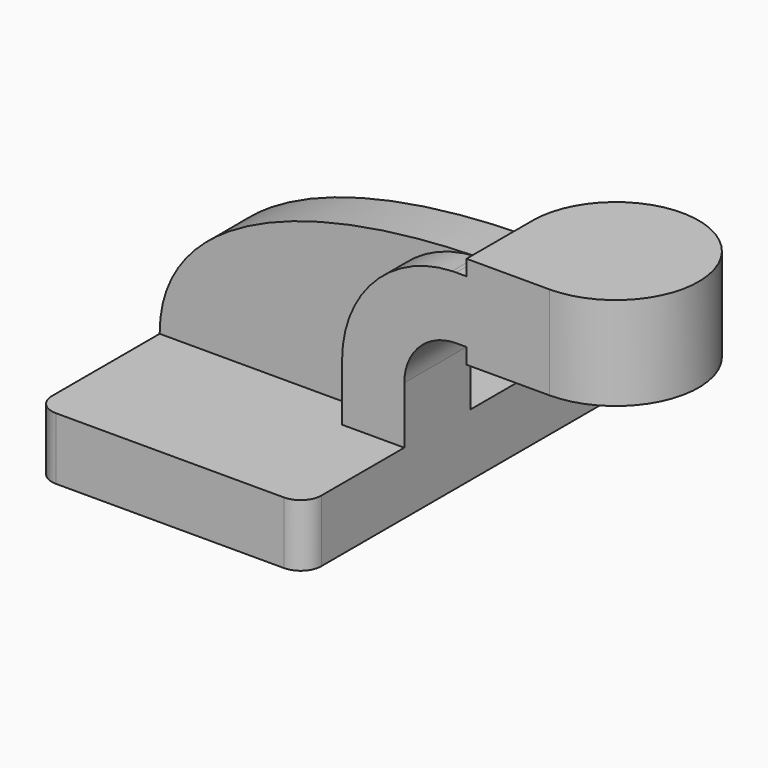
from build123d import *

# Parameters (mm, degrees)
F1_DEPTH = 63.5
F2_DEPTH = 25.4
F3_DEPTH = 15.875
F4_R     = 6.35
F0_W     = 25.4
F0_H     = 28.575


with BuildPart() as f1:
    # F0 (on Front) → F1 (new body, symmetric)
    with BuildSketch(Plane.XZ):
        Polygon((22.225, 9.525), (-41.275, 9.525), (-41.275, -9.525), (41.275, -9.525), (41.275, 9.525), align=None)
    extrude(amount=F1_DEPTH, both=True)

    # F0 (on Front) → F2 (join)
    with BuildSketch(Plane.XZ):
        with BuildLine():
            Line((22.225, 27.0002), (22.225, 9.525))
            Line((22.225, 9.525), (41.275, 9.525))
            Line((41.275, 9.525), (41.275, 27.0002))
            ThreePointArc((41.275, 27.0002), (45.92468, 38.22552), (57.15, 42.8752))
            Line((57.15, 42.8752), (60.325, 42.8752))
            Line((60.325, 42.8752), (60.325, 61.9252))
            Line((60.325, 61.9252), (57.15, 61.9252))
            add(Edge.make_bspline(
                [(55.959567, 61.904906), (56.355854, 61.91256), (56.75267, 61.919325), (57.15, 61.9252)],
                knots=[110.684323, 110.684323, 110.684323, 110.684323, 111.504536, 111.504536, 111.504536, 111.504536], degree=3))
            ThreePointArc((55.959567, 61.904906), (32.036941, 51.271374), (22.225, 27.0002))
        make_face()
        Polygon((60.325, 66.675), (60.325, 61.9252), (60.325, 42.8752), (60.325, 38.1), (85.725, 38.1), (85.725, 66.675), align=None)
    extrude(amount=F2_DEPTH)

    # F0 (on Front) → F3 (join)
    with BuildSketch(Plane.XZ):
        with BuildLine():
            add(Edge.make_bspline(
                [(-41.275, 9.525), (-41.377201, 43.632958), (2.482248, 60.871958), (55.959567, 61.904906)],
                knots=[0, 0, 0, 0, 110.684323, 110.684323, 110.684323, 110.684323], degree=3))
            Line((-41.275, 9.525), (22.225, 9.525))
            Line((22.225, 9.525), (22.225, 27.0002))
            ThreePointArc((22.225, 27.0002), (32.036941, 51.271374), (55.959567, 61.904906))
        make_face()
    extrude(amount=F3_DEPTH)

    # F4
    f4_edges = [f1.edges().sort_by_distance(p)[0] for p in [
        (-41.275, -63.5, 0),
        (41.275, -63.5, 0),
        (41.275, 63.5, 0),
        (-41.275, 63.5, 0),
    ]]
    fillet(f4_edges, radius=F4_R)

    # F0 (on Front) → F5 (revolve)
    with BuildSketch(Plane.XZ):
        with Locations((98.425, 52.3875)):
            Rectangle(F0_W, F0_H)
    revolve(axis=Axis((85.725, 0, 52.3875), (0, 0, -1)))


solid = f1.part
